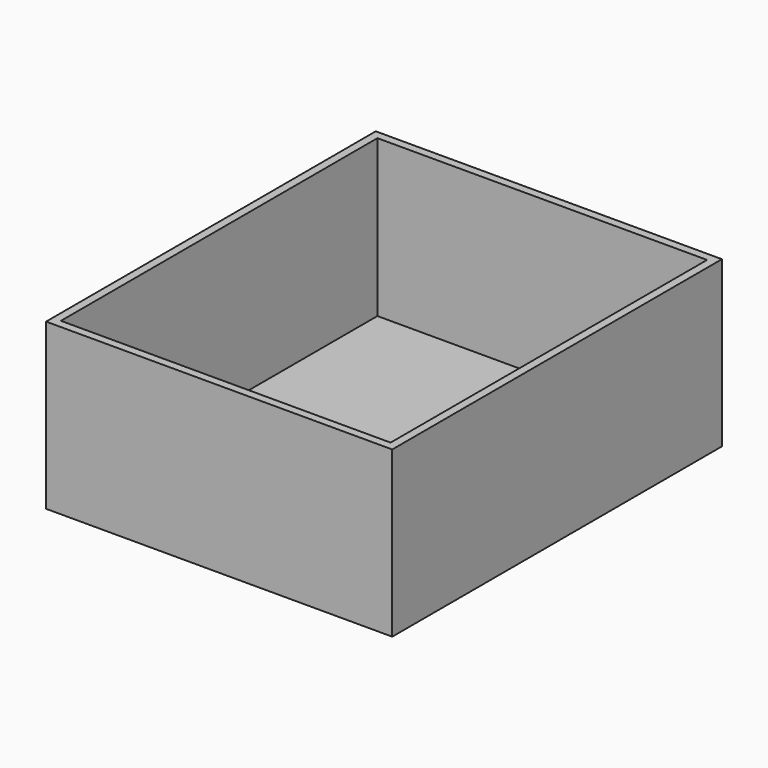
from build123d import *

# Parameters (mm, degrees)
F0_W     = 254
F0_H     = 304.8
F1_DEPTH = 6.35
F0_W_2   = 266.7
F0_H_2   = 317.5
F2_DEPTH = 127


with BuildPart() as f1:
    # F0 (on Top) → F1 (new body)
    with BuildSketch(Plane.XY):
        with Locations((0.764279, 23.689574)):
            Rectangle(F0_W, F0_H)
    extrude(amount=F1_DEPTH)


with BuildPart() as f2:
    # F0 (on Top) → F2 (new body)
    with BuildSketch(Plane.XY):
        with Locations((0.764279, 23.689574)):
            Rectangle(F0_W_2, F0_H_2)
        with Locations((0.764279, 23.689574)):
            Rectangle(F0_W, F0_H, mode=Mode.SUBTRACT)
    extrude(amount=F2_DEPTH)


solid = Compound([f1.part, f2.part])
